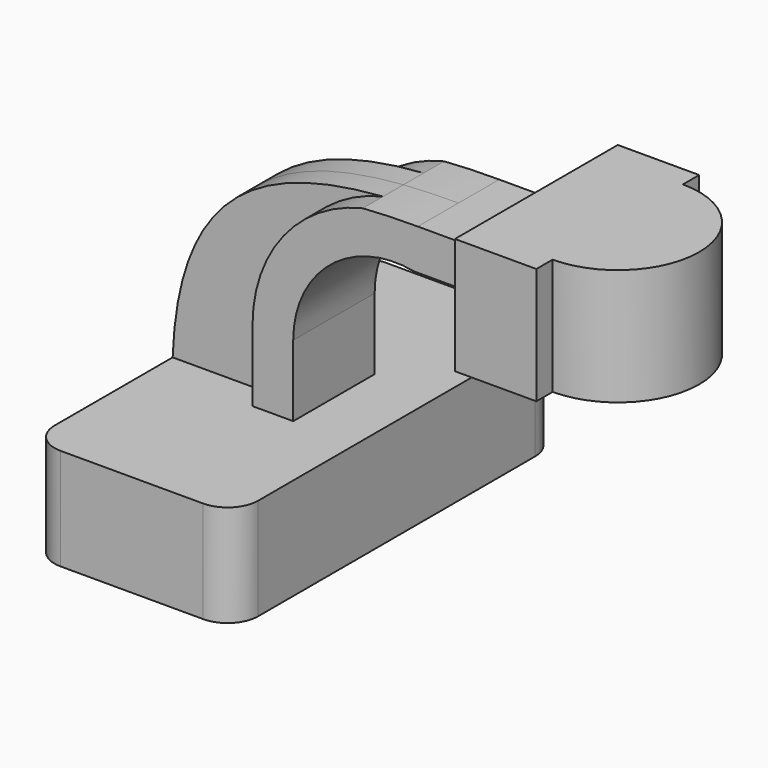
from build123d import *

# Parameters (mm, degrees)
F1_DEPTH = 100
F2_DEPTH = 25
F3_DEPTH = 50
F5_DEPTH = 12.5
F6_R     = 15


with BuildPart() as f1:
    # F0 (on Front) → F1 (new body, symmetric)
    with BuildSketch(Plane.XZ):
        Polygon((-50, 25), (-50, -25), (50, -25), (50, 25), (19.234454, 25), (-0.765546, 25), align=None)
    extrude(amount=F1_DEPTH, both=True)

    # F0 (on Front) → F2 (join, symmetric)
    with BuildSketch(Plane.XZ):
        with BuildLine():
            Line((-0.765546, 60), (-0.765546, 25))
            Line((-0.765546, 25), (19.234454, 25))
            Line((19.234454, 25), (19.234454, 60))
            ThreePointArc((19.234454, 60), (37.397461, 98.553935), (78.690689, 109.097654))
            Line((78.690689, 109.097654), (118.690689, 109.097654))
            Line((118.690689, 109.097654), (118.690689, 129.097654))
            Line((118.690689, 129.097654), (80.437767, 129.097654))
            add(Edge.make_bspline(
                [(53.363976, 128.17718), (62.022985, 128.828118), (71.068506, 129.097654), (80.437767, 129.097654)],
                knots=[145.637672, 145.637672, 145.637672, 145.637672, 166.884189, 166.884189, 166.884189, 166.884189], degree=3))
            ThreePointArc((53.363976, 128.17718), (14.412316, 103.526237), (-0.765546, 60))
        make_face()
    extrude(amount=F2_DEPTH, both=True)

    # F0 (on Front) → F3 (join, symmetric)
    with BuildSketch(Plane.XZ):
        Polygon((118.690689, 146.330218), (118.690689, 129.097654), (118.690689, 109.097654), (118.690689, 89.097654), (158.690689, 89.097654), (158.690689, 146.330218), align=None)
    extrude(amount=F3_DEPTH, both=True)

    # F0 (on Front) → F4 (revolve)
    with BuildSketch(Plane.XZ):
        Polygon((118.690689, 146.330218), (118.690689, 129.097654), (118.690689, 109.097654), (118.690689, 89.097654), (158.690689, 89.097654), (158.690689, 146.330218), align=None)
    revolve(axis=Axis((158.690689, 0, 117.713936), (0, 0, 1)))

    # F0 (on Front) → F5 (join, symmetric)
    with BuildSketch(Plane.XZ):
        with BuildLine():
            add(Edge.make_bspline(
                [(-50, 25), (-47.184367, 101.332585), (-5.990596, 123.715224), (53.363976, 128.17718)],
                knots=[0, 0, 0, 0, 145.637672, 145.637672, 145.637672, 145.637672], degree=3))
            Line((-50, 25), (-0.765546, 25))
            Line((-0.765546, 25), (-0.765546, 60))
            ThreePointArc((-0.765546, 60), (14.412316, 103.526237), (53.363976, 128.17718))
        make_face()
    extrude(amount=F5_DEPTH, both=True)

    # F6
    f6_edges = [f1.edges().sort_by_distance(p)[0] for p in [
        (-50, -100, 0),
        (50, -100, 0),
        (50, 100, 0),
        (-50, 100, 0),
    ]]
    fillet(f6_edges, radius=F6_R)


solid = f1.part
